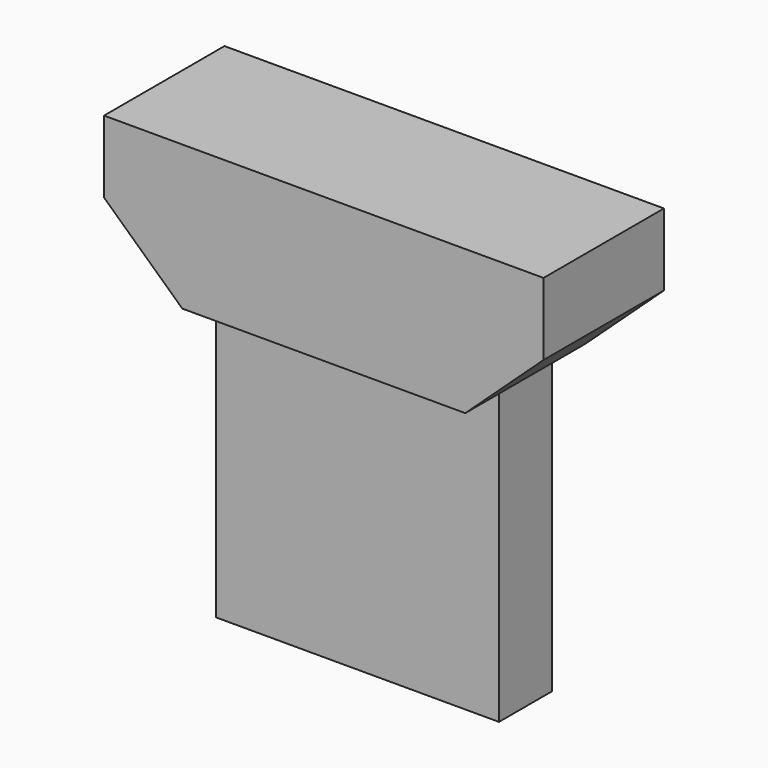
from build123d import *

# Parameters (mm, degrees)
F0_W     = 463.55
F0_H     = 158.75
F1_DEPTH = 457.2
F3_DEPTH = 158.751
F4_W     = 44.45
F4_H     = 304.8
F5_DEPTH = 381.001


with BuildPart() as f1:
    # F0 (on Top) → F1 (new body)
    with BuildSketch(Plane.XY):
        Rectangle(F0_W, F0_H)
    extrude(amount=F1_DEPTH)

    # F2 (on face) → F3 (cut, through all)
    with BuildSketch(Plane.XZ.offset(79.375)):
        Polygon((-149.225, 0), (-149.225, 304.8), (-231.775, 381), (-231.775, 0), align=None)
        Polygon((149.225, 304.8), (149.225, 0), (231.775, 0), (231.775, 381), align=None)
    extrude(amount=-F3_DEPTH, mode=Mode.SUBTRACT)

    # F4 (on face) → F5 (cut, through all)
    with BuildSketch(Plane(origin=(-149.225, 0, 0), x_dir=(0, -1, 0), z_dir=(-1, 0, 0))):
        with Locations((-57.15, 152.4)):
            Rectangle(F4_W, F4_H)
        with Locations((57.15, 152.4)):
            Rectangle(F4_W, F4_H)
    extrude(amount=-F5_DEPTH, mode=Mode.SUBTRACT)


solid = f1.part
